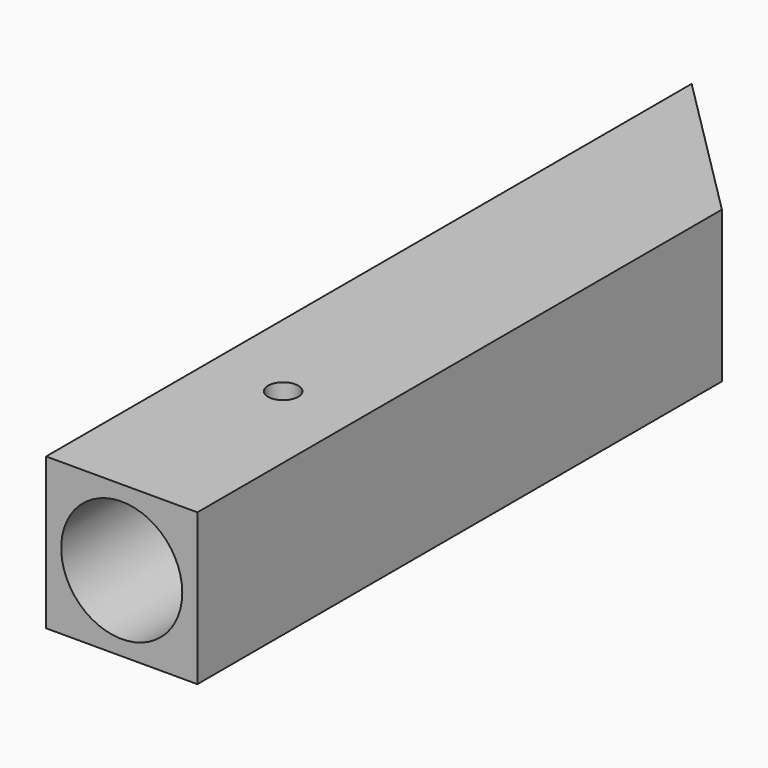
from build123d import *

# Parameters (mm, degrees)
SKETCH_W        = 30
SKETCH_H        = 30
PAD_DEPTH       = 160
POCKET_DEPTH    = 30.001
SKETCH002_R     = 4
POCKET001_DEPTH = 113.138085
SKETCH003_R     = 12
POCKET002_DEPTH = 50
SKETCH004_R     = 3
POCKET003_DEPTH = 30.001


with BuildPart() as part:
    # Sketch → Pad (new body)
    with BuildSketch(Plane.XZ):
        with Locations((15, 15)):
            Rectangle(SKETCH_W, SKETCH_H)
    extrude(amount=PAD_DEPTH)

    # Sketch001 (on Face3 of Pad) → Pocket (cut, through all)
    with BuildSketch(Plane(origin=(0, 0, 30), x_dir=(-1, 0, 0), z_dir=(0, 0, 1))):
        Polygon((0, 0), (-30, 30), (-30, 0), align=None)
    extrude(amount=-POCKET_DEPTH, mode=Mode.SUBTRACT)

    # Sketch002 (on Face2 of Pocket) → Pocket001 (cut, through all)
    with BuildSketch(Plane(origin=(0, 0, 0), x_dir=(0.707107, -0.707107, 0), z_dir=(0.707107, 0.707107, 0))):
        with Locations((21.213203, -15)):
            Circle(SKETCH002_R)
    extrude(amount=-POCKET001_DEPTH, mode=Mode.SUBTRACT)

    # Sketch003 (on Face4 of Pocket001) → Pocket002 (cut)
    with BuildSketch(Plane.XZ.offset(160)):
        with Locations((15, 15)):
            Circle(SKETCH003_R)
    extrude(amount=-POCKET002_DEPTH, mode=Mode.SUBTRACT)

    # Sketch004 (on Face6 of Pocket002) → Pocket003 (cut, through all)
    with BuildSketch(Plane(origin=(0, 0, 30), x_dir=(-1, 0, 0), z_dir=(0, 0, 1))):
        with Locations((-15, 120)):
            Circle(SKETCH004_R)
    extrude(amount=-POCKET003_DEPTH, mode=Mode.SUBTRACT)


solid = part.part
